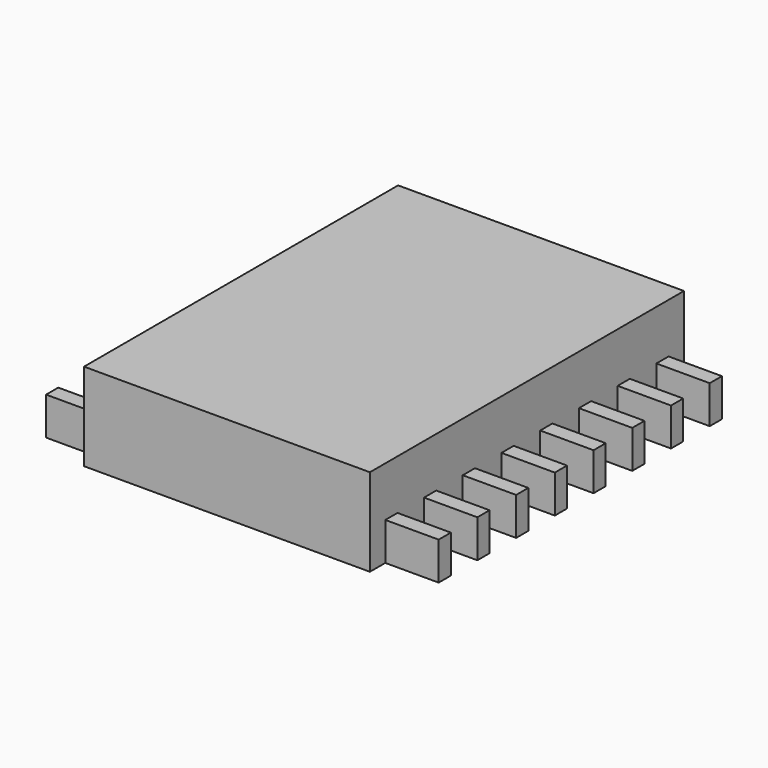
from build123d import *

# Parameters (mm, degrees)
F0_W     = 7.5
F0_H     = 10.3
F1_DEPTH = 2.3
F2_W     = 1.4
F2_H     = 0.4
F3_DEPTH = 0.99318
F5_COUNT = 2
F5_ANGLE = 180


with BuildPart() as f1:
    # F0 (on Top) → F1 (new body)
    with BuildSketch(Plane.XY):
        Rectangle(F0_W, F0_H)
    extrude(amount=F1_DEPTH)

    # F2 (on Top) → F3 (join)
    with BuildSketch(Plane.XY):
        with Locations((-4.45, 4.445)):
            Rectangle(F2_W, F2_H)
        with Locations((-4.45, 3.175)):
            Rectangle(F2_W, F2_H)
        with Locations((-4.45, 1.905)):
            Rectangle(F2_W, F2_H)
        with Locations((-4.45, -1.905)):
            Rectangle(F2_W, F2_H)
        with Locations((-4.45, 0.635)):
            Rectangle(F2_W, F2_H)
        with Locations((-4.45, -0.635)):
            Rectangle(F2_W, F2_H)
        with Locations((-4.45, -3.175)):
            Rectangle(F2_W, F2_H)
        with Locations((-4.45, -4.445)):
            Rectangle(F2_W, F2_H)
    extrude(amount=F3_DEPTH)

    # F5: F1 ×2 about axis
    f5_axis = Axis((0, 0, 4.798143), (0, 0, 1))


with BuildPart() as f1_1:
    add(f1.part)
    for i in range(1, F5_COUNT):
        add(f1.part.rotate(f5_axis, i * F5_ANGLE / (F5_COUNT - 1)))


solid = f1_1.part
